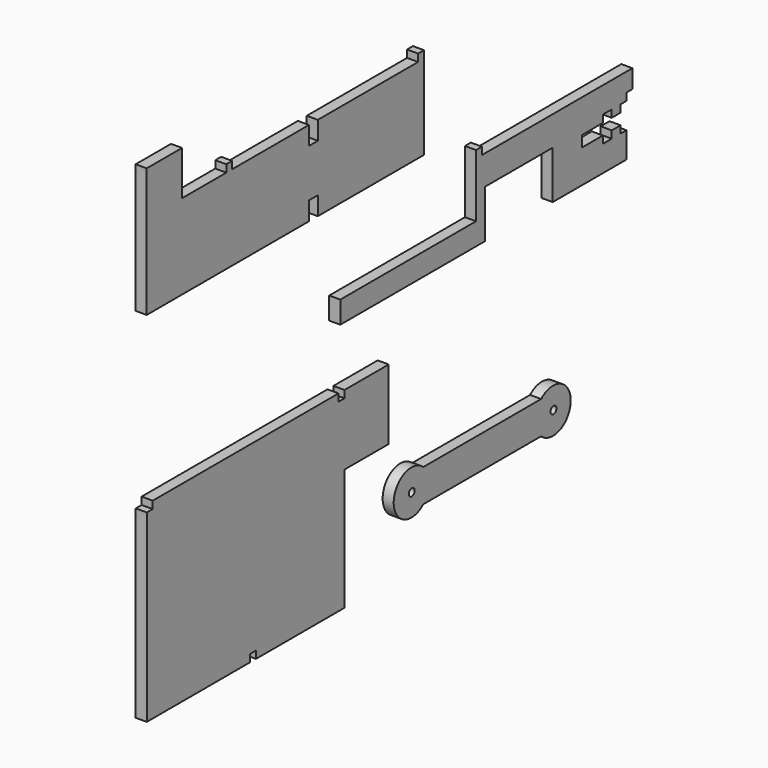
from build123d import *

# Parameters (mm, degrees)
F1_DEPTH = 3
F3_DEPTH = 3
F6_DEPTH = 3
F5_R     = 1
F7_DEPTH = 3
F9_D     = 2
F11_D    = 2


with BuildPart() as f1:
    # F0 (on Right) → F1 (new body)
    with BuildSketch(Plane.YZ):
        Polygon((-65.5879303813, 2.5217376649), (-65.5879303813, -47.4782623351), (-30.5879303813, -47.4782623351), (-30.5879303813, -45.4782623351), (-28.5879303813, -45.4782623351), (-28.5879303813, -47.4782623351), (1.4120696187, -47.4782623351), (1.4120696187, -14.4782623351), (16.4120696187, -14.4782623351), (16.4120696187, 4.5217376649), (1.4120696187, 4.5217376649), (1.4120696187, 2.5217376649), (-0.5879303813, 2.5217376649), (-0.5879303813, 4.5217376649), (-63.5879303813, 4.5217376649), (-63.5879303813, 2.5217376649), align=None)
    extrude(amount=F1_DEPTH)


with BuildPart() as f3:
    # F2 (on Right) → F3 (new body)
    with BuildSketch(Plane.YZ):
        Polygon((-65.6263157725, 84.6805161238), (-65.6263157725, 49.6805161238), (-10.6263157725, 49.6805161238), (-10.6263157725, 54.6805161238), (-7.6263157725, 54.6805161238), (-7.6263157725, 49.6805161238), (28.3736842275, 49.6805161238), (28.3736842275, 74.6805161238), (26.3736842275, 74.6805161238), (26.3736842275, 72.6805161238), (-7.6263157725, 72.6805161238), (-7.6263157725, 67.6805161238), (-10.6263157725, 67.6805161238), (-10.6263157725, 72.6805161238), (-36.6263157725, 72.6805161238), (-36.6263157725, 74.6805161238), (-38.6263157725, 74.6805161238), (-38.6263157725, 72.6805161238), (-53.6263157725, 72.6805161238), (-53.6263157725, 84.6805161238), align=None)
    extrude(amount=F3_DEPTH)


with BuildPart() as f6:
    # F4 (on Right) → F6 (new body)
    with BuildSketch(Plane.YZ):
        Polygon((46, 26.6718891859), (0, 26.6718891859), (0, 20.6718891859), (49, 20.6718891859), (49, 33.6718891859), (72, 33.6718891859), (72, 20.6718891859), (97, 20.6718891859), (97, 27.6718891859), (95, 27.6718891859), (95, 29.6718891859), (92, 29.6718891859), (92, 27.6718891859), (89, 27.6718891859), (89, 29.6718891859), (82, 29.6718891859), (82, 32.6718891859), (89, 32.6718891859), (89, 34.6718891859), (92, 34.6718891859), (92, 32.6718891859), (95, 32.6718891859), (95, 34.6718891859), (97, 34.6718891859), (97, 36.6718891859), (99, 36.6718891859), (99, 41.6718891859), (48, 41.6718891859), (48, 43.6718891859), (46, 43.6718891859), align=None)
    extrude(amount=F6_DEPTH)


with BuildPart() as f7:
    # F5 (on Right) → F7 (new body)
    with BuildSketch(Plane.YZ):
        with BuildLine():
            ThreePointArc((28.1280546868, -24.7287602043), (29.5833822285, -26.7427890303), (30.0979064256, -29.1737467051))
            ThreePointArc((30.0979064256, -29.1737467051), (29.5833822285, -31.6047043798), (28.1280546868, -33.6187332059))
            Line((28.1280546868, -33.6187332059), (68.0677581643, -33.6187332059))
            ThreePointArc((68.0677581643, -33.6187332059), (66.0979064256, -29.1737467051), (68.0677581643, -24.7287602043))
            Line((68.0677581643, -24.7287602043), (28.1280546868, -24.7287602043))
        make_face()
        with BuildLine():
            ThreePointArc((78.0979064256, -29.1737467051), (74.5288641003, -23.6882709022), (68.0677581643, -24.7287602043))
            ThreePointArc((68.0677581643, -24.7287602043), (66.0979064256, -29.1737467051), (68.0677581643, -33.6187332059))
            ThreePointArc((68.0677581643, -33.6187332059), (74.5288641003, -34.6592225079), (78.0979064256, -29.1737467051))
        make_face()
        with Locations((72.0979064256, -29.1737467051)):
            Circle(F5_R, mode=Mode.SUBTRACT)
        with BuildLine():
            ThreePointArc((28.1280546868, -33.6187332059), (29.5833822285, -31.6047043798), (30.0979064256, -29.1737467051))
            ThreePointArc((30.0979064256, -29.1737467051), (29.5833822285, -26.7427890303), (28.1280546868, -24.7287602043))
            ThreePointArc((28.1280546868, -24.7287602043), (18.0979064256, -29.1737467051), (28.1280546868, -33.6187332059))
        make_face()
        with Locations((24.0979064256, -29.1737467051)):
            Circle(F5_R, mode=Mode.SUBTRACT)
        with Locations((72.0979064256, -29.1737467051)):
            Circle(F5_R)
        with Locations((24.0979064256, -29.1737467051)):
            Circle(F5_R)
    extrude(amount=F7_DEPTH)

    # F9 (through all)
    with Locations(Plane(origin=(0, 0, 0), x_dir=(0, 1, 0), z_dir=(-1, 0, 0))):
        with Locations((24.2122728378, 29.180072248)):
            Hole(F9_D / 2)

    # F11 (through all)
    with Locations(Plane(origin=(0, 0, 0), x_dir=(0, 1, 0), z_dir=(-1, 0, 0))):
        with Locations((72.253473103, 29.0784928948)):
            Hole(F11_D / 2)


solid = Compound([f1.part, f3.part, f6.part, f7.part])
